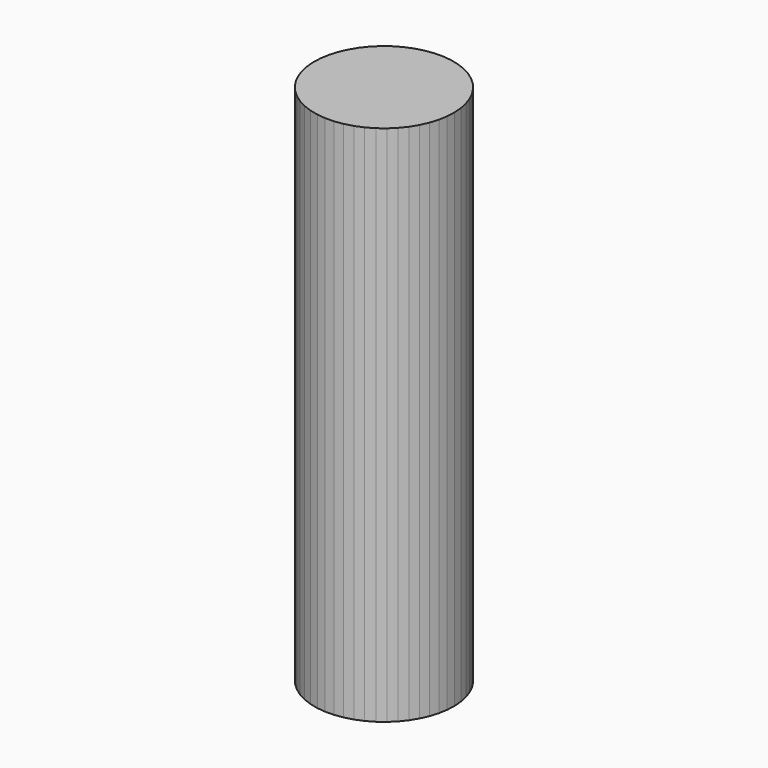
from build123d import *

# Parameters (mm, degrees)
F1_DEPTH = 127


with BuildPart() as f1:
    # F0 (on Top) → F1 (new body)
    with BuildSketch(Plane.XY):
        Polygon((-22.746946, 8.928029), (-20.69835, 9.491393), (-18.736516, 10.307072), (-16.892383, 11.362202), (-15.195034, 12.640143), (-13.671238, 14.120742), (-12.345026, 15.780647), (-11.237312, 17.593683), (-10.365567, 19.531255), (-9.743538, 21.562808), (-9.381035, 23.656302), (-9.283775, 25.778722), (-9.453292, 27.896596), (-9.886912, 29.976523), (-10.577796, 31.985704), (-11.51505, 33.89245), (-12.683892, 35.666692), (-14.065889, 37.280448), (-15.639246, 38.70827), (-17.37915, 39.927639), (-19.258161, 40.919325), (-21.246647, 41.667689), (-23.313249, 42.160928), (-25.425374, 42.391264), (-27.549713, 42.355065), (-29.652763, 42.0529), (-31.70136, 41.489536), (-33.663194, 40.673857), (-35.507327, 39.618727), (-37.204676, 38.340786), (-38.728472, 36.860188), (-40.054684, 35.200282), (-41.162397, 33.387247), (-42.034143, 31.449674), (-42.656172, 29.418122), (-43.018675, 27.324628), (-43.115935, 25.202208), (-42.946418, 23.084334), (-42.512798, 21.004406), (-41.821914, 18.995226), (-40.88466, 17.08848), (-39.715818, 15.314238), (-38.333821, 13.700481), (-36.760464, 12.272659), (-35.02056, 11.05329), (-33.141549, 10.061604), (-31.153062, 9.31324), (-29.086461, 8.820001), (-26.974336, 8.589665), (-24.849997, 8.625865), align=None)
    extrude(amount=F1_DEPTH)


solid = f1.part
